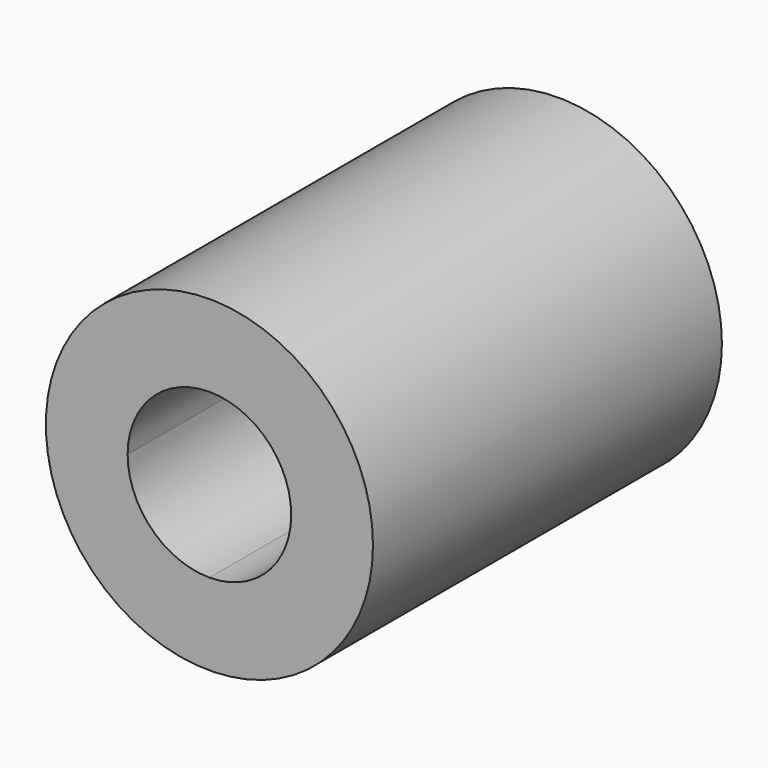
from build123d import *

# Parameters (mm, degrees)
F0_R     = 9.525
F1_DEPTH = 25.4
F3_DEPTH = 25.401
F4_DEPTH = 11.0998
F6_DEPTH = 9.525


with BuildPart() as f1:
    # F0 (on Front) → F1 (new body)
    with BuildSketch(Plane.XZ):
        Circle(F0_R)
    extrude(amount=F1_DEPTH)

    # F2 (on Front) → F3 (cut, through all)
    with BuildSketch(Plane.XZ):
        with BuildLine():
            ThreePointArc((4.7625, 0), (3.367596, 3.367596), (0, 4.7625))
            ThreePointArc((0, 4.7625), (-3.367596, 3.367596), (-4.7625, 0))
            ThreePointArc((-4.7625, 0), (-3.367596, -3.367596), (0, -4.7625))
            ThreePointArc((0, -4.7625), (3.367596, -3.367596), (4.7625, 0))
        make_face()
    extrude(amount=F3_DEPTH, mode=Mode.SUBTRACT)

    # F2 (on Front) → F4 (cut)
    with BuildSketch(Plane.XZ):
        with BuildLine():
            Line((0, 4.7625), (-4.7625, 4.7625))
            Line((-4.7625, 4.7625), (-4.7625, 0))
            ThreePointArc((-4.7625, 0), (-3.367596, 3.367596), (0, 4.7625))
        make_face()
        with BuildLine():
            Line((4.7625, 4.7625), (0, 4.7625))
            ThreePointArc((0, 4.7625), (3.367596, 3.367596), (4.7625, 0))
            Line((4.7625, 0), (4.7625, 4.7625))
        make_face()
        with BuildLine():
            ThreePointArc((0, -4.7625), (-3.367596, -3.367596), (-4.7625, 0))
            Line((-4.7625, 0), (-4.7625, -4.7625))
            Line((-4.7625, -4.7625), (0, -4.7625))
        make_face()
        with BuildLine():
            Line((4.7625, -4.7625), (4.7625, 0))
            ThreePointArc((4.7625, 0), (3.367596, -3.367596), (0, -4.7625))
            Line((0, -4.7625), (4.7625, -4.7625))
        make_face()
    extrude(amount=F4_DEPTH, mode=Mode.SUBTRACT)

    # F5 (on face) → F6 (cut)
    with BuildSketch(Plane(origin=(0, 0, 0), x_dir=(-1, 0, 0), z_dir=(0, 1, 0))):
        Polygon((3.65125, 6.324151), (-3.65125, 6.324151), (-7.3025, 0), (-3.65125, -6.324151), (3.65125, -6.324151), (7.3025, 0), align=None)
    extrude(amount=-F6_DEPTH, mode=Mode.SUBTRACT)


solid = f1.part
